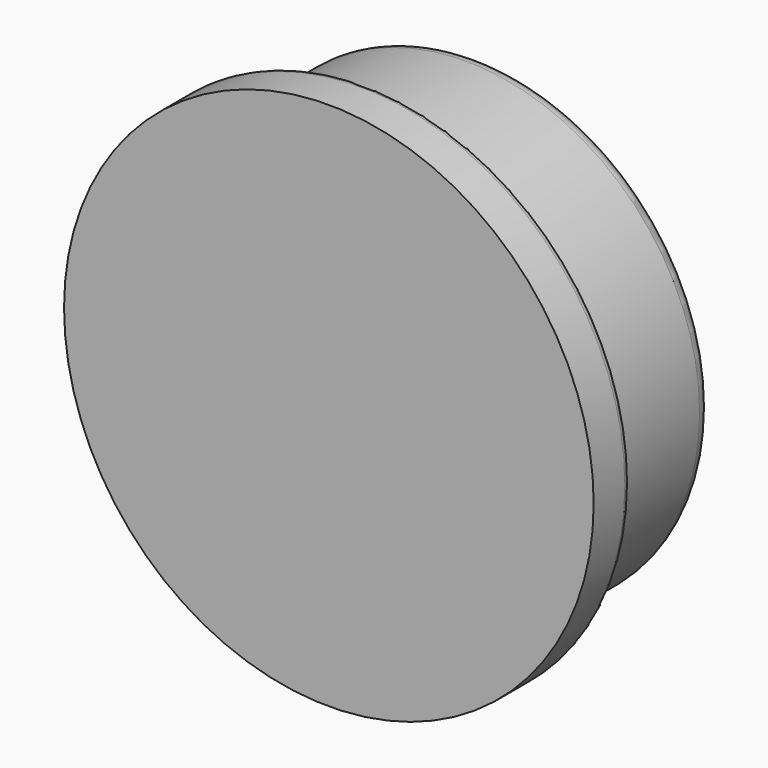
from build123d import *

# Parameters (mm, degrees)
F0_R     = 6.746875
F1_DEPTH = 1.190625
F2_R     = 5.953125
F3_DEPTH = 3.571875
F4_R     = 0.396875
F5_R     = 0.198437
F6_R     = 5.55625
F7_DEPTH = 2.38125
F8_W     = 6.35
F8_H     = 6.35
F9_DEPTH = 0.396875


with BuildPart() as f1:
    # F0 (on Front) → F1 (new body)
    with BuildSketch(Plane.XZ):
        Circle(F0_R)
    extrude(amount=-F1_DEPTH)

    # F2 (on face) → F3 (join)
    with BuildSketch(Plane(origin=(0, 1.190625, 0), x_dir=(-1, 0, 0), z_dir=(0, 1, 0))):
        Circle(F2_R)
    extrude(amount=F3_DEPTH)

    # F4
    f4_edges = [f1.edges().sort_by_distance(p)[0] for p in [
        (5.953125, 4.7625, 0),
    ]]
    fillet(f4_edges, radius=F4_R)

    # F5
    f5_edges = [f1.edges().sort_by_distance(p)[0] for p in [
        (5.953125, 1.190625, 0),
        (-6.746875, 1.190625, 0),
    ]]
    fillet(f5_edges, radius=F5_R)

    # F6 (on face) → F7 (cut)
    with BuildSketch(Plane(origin=(0, 4.7625, 0), x_dir=(-1, 0, 0), z_dir=(0, 1, 0))):
        Circle(F6_R)
    extrude(amount=-F7_DEPTH, mode=Mode.SUBTRACT)

    # F8 (on face) → F9 (join)
    with BuildSketch(Plane(origin=(0, 2.38125, 0), x_dir=(-1, 0, 0), z_dir=(0, 1, 0))):
        Rectangle(F8_W, F8_H)
    extrude(amount=F9_DEPTH)


solid = f1.part
